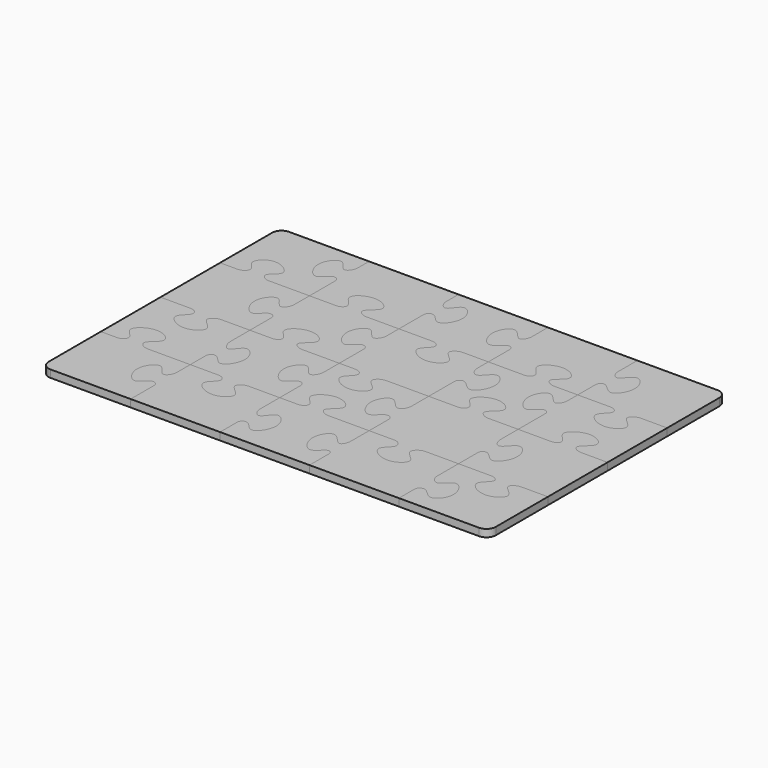
from build123d import *

# Parameters (mm, degrees)
F1_DEPTH  = 2
F2_DEPTH  = 2
F3_DEPTH  = 2
F4_DEPTH  = 2
F5_DEPTH  = 2
F6_DEPTH  = 2
F7_DEPTH  = 2
F8_DEPTH  = 2
F9_DEPTH  = 2
F10_DEPTH = 2
F11_DEPTH = 2
F12_DEPTH = 2
F13_DEPTH = 2
F14_DEPTH = 2
F15_DEPTH = 2
F16_DEPTH = 2
F17_DEPTH = 2
F18_DEPTH = 2
F19_DEPTH = 2
F20_DEPTH = 2
F21_SCALE = 2
F22_R     = 5
F22_2_R   = 5
F22_3_R   = 5
F22_4_R   = 5


with BuildPart() as f1:
    # F0 (on Top) → F1 (new body)
    with BuildSketch(Plane.XY):
        with BuildLine():
            Line((24, -3.7584721283), (24, 0))
            Line((24, 0), (0, 0))
            Line((0, 0), (0, -20.0006017578))
            Line((0, -20.0006017578), (4.7355652845, -20.0006017578))
            add(Edge.make_bspline(
                [(13.115263976, -20.0006017578), (11.8799935394, -20.0006017578), (9.493223639, -17.9887675521), (15.2264950374, -15.5496709572), (8.4759371938, -10.7396164265), (3.4947555113, -15.5543546626), (7.9483864379, -18.0764203974), (6.0408884245, -19.9328260203), (4.7355652845, -20.0006017578)],
                knots=[0, 0, 0, 0, 0.1457055463, 0.3082725414, 0.5094311351, 0.6964902303, 0.8538875316, 0.994566924, 0.994566924, 0.994566924, 0.994566924], degree=3))
            Line((13.115263976, -20.0006017578), (24, -20.0006017578))
            Line((24, -20.0006017578), (24, -11.5073662716))
            add(Edge.make_bspline(
                [(24, -3.7584721283), (24, -5.0220939547), (22.0108390013, -7.8207823307), (19.7245570713, -1.5299457627), (14.7700328768, -7.5446119043), (19.5876216983, -14.1940094341), (21.854031783, -9.2492867095), (24, -10.2861399649), (24, -11.5073662716)],
                knots=[0, 0, 0, 0, 0.1490497166, 0.3161137245, 0.5077874187, 0.7112399197, 0.8713601426, 1, 1, 1, 1], degree=3))
        make_face()
    extrude(amount=F1_DEPTH)


with BuildPart() as f2:
    # F0 (on Top) → F2 (new body)
    with BuildSketch(Plane.XY):
        with BuildLine():
            Line((48, 0), (24, 0))
            Line((24, 0), (24, -3.7584721283))
            add(Edge.make_bspline(
                [(24, -3.7584721283), (24, -5.0220939547), (22.0108390013, -7.8207823307), (19.7245570713, -1.5299457627), (14.7700328768, -7.5446119043), (19.5876216983, -14.1940094341), (21.854031783, -9.2492867095), (24, -10.2861399649), (24, -11.5073662716)],
                knots=[0, 0, 0, 0, 0.1490497166, 0.3161137245, 0.5077874187, 0.7112399197, 0.8713601426, 1, 1, 1, 1], degree=3))
            Line((24, -11.5073662716), (24, -20.0006017578))
            Line((24, -20.0006017578), (31.0887843012, -20.0006017578))
            add(Edge.make_bspline(
                [(39.2809996482, -19.9981919529), (38.0825608, -19.9556917182), (35.3488362077, -18.2167908481), (41.6166244807, -15.2247308685), (35.6036978772, -10.9503067017), (28.8396564664, -15.0322405972), (34.2082944417, -18.3133515154), (32.3531325288, -20.0006017578), (31.0887843012, -20.0006017578)],
                knots=[0.0039809469, 0.0039809469, 0.0039809469, 0.0039809469, 0.1449732133, 0.3162923045, 0.5020510474, 0.699830512, 0.866817825, 1, 1, 1, 1], degree=3))
            Line((39.2809996482, -19.9981919529), (48, -19.9981922525))
            Line((48, -19.9981922525), (48, -11.8384845555))
            add(Edge.make_bspline(
                [(48, -4.1077627646), (48, -5.3716677119), (49.9892220651, -8.1680764855), (52.2755573492, -1.8796305983), (57.230246372, -7.8945865894), (52.4113195443, -14.5403991739), (50.1502363284, -9.6094862294), (48, -10.6198875424), (48, -11.8384845555)],
                knots=[0, 0, 0, 0, 0.149083112, 0.3161919938, 0.5079342773, 0.7114595825, 0.8716371035, 1, 1, 1, 1], degree=3))
            Line((48, -4.1077627646), (48, 0))
        make_face()
    extrude(amount=F2_DEPTH)


with BuildPart() as f3:
    # F0 (on Top) → F3 (new body)
    with BuildSketch(Plane.XY):
        with BuildLine():
            Line((72, 0), (48, 0))
            Line((48, 0), (48, -4.1077627646))
            add(Edge.make_bspline(
                [(48, -4.1077627646), (48, -5.3716677119), (49.9892220651, -8.1680764855), (52.2755573492, -1.8796305983), (57.230246372, -7.8945865894), (52.4113195443, -14.5403991739), (50.1502363284, -9.6094862294), (48, -10.6198875424), (48, -11.8384845555)],
                knots=[0, 0, 0, 0, 0.149083112, 0.3161919938, 0.5079342773, 0.7114595825, 0.8716371035, 1, 1, 1, 1], degree=3))
            Line((48, -11.8384845555), (48, -19.9981922525))
            Line((48, -19.9981922525), (56.9226125415, -19.9981925591))
            add(Edge.make_bspline(
                [(65.2162244751, -19.9981928441), (63.9742302045, -19.9981928014), (61.1345728733, -21.9264637505), (67.444978521, -24.8501877246), (61.4031999593, -29.2974154859), (54.700855209, -24.675424268), (60.0334974007, -21.8853637803), (58.2049452221, -19.9981926032), (56.9226125415, -19.9981925591)],
                knots=[0, 0, 0, 0, 0.1464986518, 0.3176208217, 0.5031660462, 0.7033457105, 0.8649234036, 1, 1, 1, 1], degree=3))
            Line((65.2162244751, -19.9981928441), (72, -19.9981930772))
            Line((72, -19.9981930772), (72, -13.0545149644))
            add(Edge.make_bspline(
                [(72, -5.3029970827), (72, -6.5361415437), (70.4036666482, -9.3746777406), (67.4418181444, -3.0566660991), (62.9639825919, -9.0923977994), (67.3005982199, -15.757784466), (70.2012374634, -10.8006550751), (72, -11.8852667416), (72, -13.0545149644)],
                knots=[0, 0, 0, 0, 0.1454538995, 0.3184632046, 0.5082890004, 0.7100717108, 0.876834229, 1, 1, 1, 1], degree=3))
            Line((72, -5.3029970827), (72, 0))
        make_face()
    extrude(amount=F3_DEPTH)


with BuildPart() as f4:
    # F0 (on Top) → F4 (new body)
    with BuildSketch(Plane.XY):
        with BuildLine():
            Line((96, 0), (72, 0))
            Line((72, 0), (72, -5.3029970827))
            add(Edge.make_bspline(
                [(72, -5.3029970827), (72, -6.5361415437), (70.4036666482, -9.3746777406), (67.4418181444, -3.0566660991), (62.9639825919, -9.0923977994), (67.3005982199, -15.757784466), (70.2012374634, -10.8006550751), (72, -11.8852667416), (72, -13.0545149644)],
                knots=[0, 0, 0, 0, 0.1454538995, 0.3184632046, 0.5082890004, 0.7100717108, 0.876834229, 1, 1, 1, 1], degree=3))
            Line((72, -13.0545149644), (72, -19.9981930772))
            Line((72, -19.9981930772), (81.4548964701, -19.9981934021))
            add(Edge.make_bspline(
                [(89.7471175746, -19.998193687), (88.513098575, -19.9981936446), (85.6689618145, -18.1631312344), (91.980045719, -15.3278802191), (85.9721256284, -10.8213294745), (79.219970992, -15.1354347202), (84.5689410971, -18.2425948389), (82.7258491212, -19.9981934458), (81.4548964701, -19.9981934021)],
                knots=[0, 0, 0, 0, 0.1455577153, 0.3153699973, 0.502235583, 0.70087226, 0.8661223095, 1, 1, 1, 1], degree=3))
            Line((89.7471175746, -19.998193687), (96, -19.9981939019))
            Line((96, -19.9981939019), (96, -14.1215990914))
            add(Edge.make_bspline(
                [(96, -6.3747486351), (96, -7.6083206153), (97.6294004629, -10.4447947787), (100.6148144282, -4.127864344), (105.0885589186, -10.1626170574), (100.7555229608, -16.8266023613), (97.8322602283, -11.871441542), (96, -12.9494285442), (96, -14.1215990914)],
                knots=[0, 0, 0, 0, 0.1455037938, 0.3186710558, 0.5081348151, 0.709533445, 0.8765270202, 1, 1, 1, 1], degree=3))
            Line((96, -6.3747486351), (96, 0))
        make_face()
    extrude(amount=F4_DEPTH)


with BuildPart() as f5:
    # F0 (on Top) → F5 (new body)
    with BuildSketch(Plane.XY):
        with BuildLine():
            Line((120, 0), (96, 0))
            Line((96, 0), (96, -6.3747486351))
            add(Edge.make_bspline(
                [(96, -6.3747486351), (96, -7.6083206153), (97.6294004629, -10.4447947787), (100.6148144282, -4.127864344), (105.0885589186, -10.1626170574), (100.7555229608, -16.8266023613), (97.8322602283, -11.871441542), (96, -12.9494285442), (96, -14.1215990914)],
                knots=[0, 0, 0, 0, 0.1455037938, 0.3186710558, 0.5081348151, 0.709533445, 0.8765270202, 1, 1, 1, 1], degree=3))
            Line((96, -14.1215990914), (96, -19.9981939019))
            Line((96, -19.9981939019), (104.7063882142, -19.9981942011))
            add(Edge.make_bspline(
                [(113, -19.9981944861), (111.7634205164, -19.9981944436), (108.9180780966, -21.8363001088), (115.2322587449, -24.794397912), (109.1870532962, -29.2260122916), (102.4803113411, -24.6208137206), (107.817394599, -21.7972377751), (105.9805087608, -19.9981942449), (104.7063882142, -19.9981942011)],
                knots=[0, 0, 0, 0, 0.1458599539, 0.3173403, 0.5032738897, 0.7038725505, 0.8657884421, 1, 1, 1, 1], degree=3))
            Line((113, -19.9981944861), (120, -19.9981947266))
            Line((120, -19.9981947266), (120, 0))
        make_face()
    extrude(amount=F5_DEPTH)


with BuildPart() as f6:
    # F0 (on Top) → F6 (new body)
    with BuildSketch(Plane.XY):
        with BuildLine():
            Line((120, -39.9987964844), (120, -19.9981947266))
            Line((120, -19.9981947266), (113, -19.9981944861))
            add(Edge.make_bspline(
                [(113, -19.9981944861), (111.7634205164, -19.9981944436), (108.9180780966, -21.8363001088), (115.2322587449, -24.794397912), (109.1870532962, -29.2260122916), (102.4803113411, -24.6208137206), (107.817394599, -21.7972377751), (105.9805087608, -19.9981942449), (104.7063882142, -19.9981942011)],
                knots=[0, 0, 0, 0, 0.1458599539, 0.3173403, 0.5032738897, 0.7038725505, 0.8657884421, 1, 1, 1, 1], degree=3))
            Line((104.7063882142, -19.9981942011), (96, -19.9981939019))
            Line((96, -19.9981939019), (96, -23.3385507017))
            add(Edge.make_bspline(
                [(96, -23.3385507017), (96, -24.5749869421), (94.4206187145, -27.4146404945), (91.3627321501, -21.0943342494), (86.9673135902, -27.1702555424), (91.5608451586, -33.7971144779), (94.3056780651, -28.8405246225), (96, -29.9352840145), (96, -31.0874448451)],
                knots=[0, 0, 0, 0, 0.145843058, 0.3203874242, 0.5096432848, 0.7138262524, 0.8786352668, 1, 1, 1, 1], degree=3))
            Line((96, -31.0874448451), (96, -39.9987964844))
            Line((96, -39.9987964844), (104.7063868636, -39.9987964844))
            add(Edge.make_bspline(
                [(113, -39.9987964844), (111.7731553006, -39.9987964844), (108.9173227076, -38.3283967843), (115.2386461807, -35.3047443797), (109.187225075, -30.9028602533), (102.4723155689, -35.4759232599), (107.8180270902, -38.3640056005), (105.9656240827, -39.9987964844), (104.7063868636, -39.9987964844)],
                knots=[0, 0, 0, 0, 0.1447116938, 0.3168389709, 0.5034740177, 0.7048294611, 0.8673562014, 1, 1, 1, 1], degree=3))
            Line((113, -39.9987964844), (120, -39.9987964844))
        make_face()
    extrude(amount=F6_DEPTH)


with BuildPart() as f7:
    # F0 (on Top) → F7 (new body)
    with BuildSketch(Plane.XY):
        with BuildLine():
            Line((120, -80), (120, -59.9993982422))
            Line((120, -59.9993982422), (113, -59.9993982422))
            add(Edge.make_bspline(
                [(113, -59.9993982422), (111.7739286971, -59.9993982422), (108.9172477976, -61.6561253007), (115.2391585268, -64.6852147147), (109.187240623, -69.0846359308), (102.4716674308, -64.5142445184), (107.8181008368, -61.6207771214), (105.9644351351, -59.9993982422), (104.7063868636, -59.9993982422)],
                knots=[0, 0, 0, 0, 0.1446204683, 0.3167993054, 0.503490258, 0.7049060166, 0.8674814411, 1, 1, 1, 1], degree=3))
            Line((104.7063868636, -59.9993982422), (96, -59.9993982422))
            Line((96, -59.9993982422), (96, -67.1107425314))
            add(Edge.make_bspline(
                [(96, -67.1107425314), (96, -68.3946340467), (98.1631648451, -71.1065645749), (101.0325367633, -65.1210909898), (105.5678465994, -71.970369581), (100.7022119308, -77.253657617), (98.2964033286, -72.6432913304), (96, -73.6293335877), (96, -74.8710201292)],
                knots=[0, 0, 0, 0, 0.1514426056, 0.3189399761, 0.5169339685, 0.7056479436, 0.8692036664, 1, 1, 1, 1], degree=3))
            Line((96, -74.8710201292), (96, -80))
            Line((96, -80), (120, -80))
        make_face()
    extrude(amount=F7_DEPTH)


with BuildPart() as f8:
    # F0 (on Top) → F8 (new body)
    with BuildSketch(Plane.XY):
        with BuildLine():
            Line((120, -59.9993982422), (120, -39.9987964844))
            Line((120, -39.9987964844), (113, -39.9987964844))
            add(Edge.make_bspline(
                [(113, -39.9987964844), (111.7731553006, -39.9987964844), (108.9173227076, -38.3283967843), (115.2386461807, -35.3047443797), (109.187225075, -30.9028602533), (102.4723155689, -35.4759232599), (107.8180270902, -38.3640056005), (105.9656240827, -39.9987964844), (104.7063868636, -39.9987964844)],
                knots=[0, 0, 0, 0, 0.1447116938, 0.3168389709, 0.5034740177, 0.7048294611, 0.8673562014, 1, 1, 1, 1], degree=3))
            Line((104.7063868636, -39.9987964844), (96, -39.9987964844))
            Line((96, -39.9987964844), (96, -45.9489563326))
            add(Edge.make_bspline(
                [(96, -45.9489563326), (96, -47.1968675973), (97.7976897794, -50.0246052563), (100.7691487606, -43.7126300623), (105.2037796502, -49.7814221312), (100.5675873037, -56.3954588924), (97.9025363912, -51.4485925787), (96, -52.518988149), (96, -53.6978504759)],
                knots=[0, 0, 0, 0, 0.1471965872, 0.3207486089, 0.5089284851, 0.7119506026, 0.8758226213, 1, 1, 1, 1], degree=3))
            Line((96, -53.6978504759), (96, -59.9993982422))
            Line((96, -59.9993982422), (104.7063868636, -59.9993982422))
            add(Edge.make_bspline(
                [(113, -59.9993982422), (111.7739286971, -59.9993982422), (108.9172477976, -61.6561253007), (115.2391585268, -64.6852147147), (109.187240623, -69.0846359308), (102.4716674308, -64.5142445184), (107.8181008368, -61.6207771214), (105.9644351351, -59.9993982422), (104.7063868636, -59.9993982422)],
                knots=[0, 0, 0, 0, 0.1446204683, 0.3167993054, 0.503490258, 0.7049060166, 0.8674814411, 1, 1, 1, 1], degree=3))
            Line((113, -59.9993982422), (120, -59.9993982422))
        make_face()
    extrude(amount=F8_DEPTH)


with BuildPart() as f9:
    # F0 (on Top) → F9 (new body)
    with BuildSketch(Plane.XY):
        with BuildLine():
            Line((81.4548964701, -19.9981934021), (72, -19.9981930772))
            Line((72, -19.9981930772), (72, -23.7384419888))
            add(Edge.make_bspline(
                [(72, -23.7384419888), (72, -24.9995731501), (74.0323358827, -27.8141796571), (76.9149150372, -21.5109762253), (81.3898204947, -27.5714941031), (76.710680789, -34.172469745), (74.1248364946, -29.2338132456), (72, -30.2792962384), (72, -31.4873361321)],
                knots=[0, 0, 0, 0, 0.1487559318, 0.3212044605, 0.5081878357, 0.709919081, 0.8727491548, 1, 1, 1, 1], degree=3))
            Line((72, -31.4873361321), (72, -39.9987964844))
            Line((72, -39.9987964844), (79.7195339582, -39.9987964844))
            add(Edge.make_bspline(
                [(88.0131470945, -39.9987964844), (86.7726747194, -39.9987964844), (83.9314294679, -38.0956659963), (90.2428823523, -35.1624188177), (84.2001426755, -30.7195182189), (77.4965721273, -35.3368611232), (82.8304377047, -38.1361862558), (80.9995632753, -39.9987964844), (79.7195339582, -39.9987964844)],
                knots=[0, 0, 0, 0, 0.1463191377, 0.3175418582, 0.5031961078, 0.7034933958, 0.865166032, 1, 1, 1, 1], degree=3))
            Line((88.0131470945, -39.9987964844), (96, -39.9987964844))
            Line((96, -39.9987964844), (96, -31.0874448451))
            add(Edge.make_bspline(
                [(96, -23.3385507017), (96, -24.5749869421), (94.4206187145, -27.4146404945), (91.3627321501, -21.0943342494), (86.9673135902, -27.1702555424), (91.5608451586, -33.7971144779), (94.3056780651, -28.8405246225), (96, -29.9352840145), (96, -31.0874448451)],
                knots=[0, 0, 0, 0, 0.145843058, 0.3203874242, 0.5096432848, 0.7138262524, 0.8786352668, 1, 1, 1, 1], degree=3))
            Line((96, -23.3385507017), (96, -19.9981939019))
            Line((96, -19.9981939019), (89.7471175746, -19.998193687))
            add(Edge.make_bspline(
                [(89.7471175746, -19.998193687), (88.513098575, -19.9981936446), (85.6689618145, -18.1631312344), (91.980045719, -15.3278802191), (85.9721256284, -10.8213294745), (79.219970992, -15.1354347202), (84.5689410971, -18.2425948389), (82.7258491212, -19.9981934458), (81.4548964701, -19.9981934021)],
                knots=[0, 0, 0, 0, 0.1455577153, 0.3153699973, 0.502235583, 0.70087226, 0.8661223095, 1, 1, 1, 1], degree=3))
        make_face()
    extrude(amount=F9_DEPTH)


with BuildPart() as f10:
    # F0 (on Top) → F10 (new body)
    with BuildSketch(Plane.XY):
        with BuildLine():
            Line((56.9226125415, -19.9981925591), (48, -19.9981922525))
            Line((48, -19.9981922525), (48, -24.0893980685))
            add(Edge.make_bspline(
                [(48, -24.0893980685), (48, -25.3549826963), (46.0147347856, -28.1805401482), (43.7236119597, -21.874309949), (38.7712348797, -27.8955688067), (43.5829593065, -34.5413248371), (45.8647669134, -29.5901747083), (48, -30.6780093555), (48, -31.9043344761)],
                knots=[0, 0, 0, 0, 0.1492873271, 0.3162256521, 0.5077672507, 0.7110013487, 0.8708128709, 1, 1, 1, 1], degree=3))
            Line((48, -31.9043344761), (48, -39.9987964844))
            Line((48, -39.9987964844), (52.2833045765, -39.9987964844))
            add(Edge.make_bspline(
                [(60.5769177129, -39.9987964844), (59.328272283, -39.9987964844), (56.4954535631, -42.0352289038), (62.8014131705, -44.9185233216), (56.7638139907, -49.384134707), (50.0667331827, -44.7424447419), (55.3942576846, -41.9915370398), (53.5756594139, -39.9987964844), (52.2833045765, -39.9987964844)],
                knots=[0, 0, 0, 0, 0.1472831852, 0.3179670285, 0.5030369815, 0.7027038881, 0.8638677033, 1, 1, 1, 1], degree=3))
            Line((60.5769177129, -39.9987964844), (72, -39.9987964844))
            Line((72, -39.9987964844), (72, -31.4873361321))
            add(Edge.make_bspline(
                [(72, -23.7384419888), (72, -24.9995731501), (74.0323358827, -27.8141796571), (76.9149150372, -21.5109762253), (81.3898204947, -27.5714941031), (76.710680789, -34.172469745), (74.1248364946, -29.2338132456), (72, -30.2792962384), (72, -31.4873361321)],
                knots=[0, 0, 0, 0, 0.1487559318, 0.3212044605, 0.5081878357, 0.709919081, 0.8727491548, 1, 1, 1, 1], degree=3))
            Line((72, -23.7384419888), (72, -19.9981930772))
            Line((72, -19.9981930772), (65.2162244751, -19.9981928441))
            add(Edge.make_bspline(
                [(65.2162244751, -19.9981928441), (63.9742302045, -19.9981928014), (61.1345728733, -21.9264637505), (67.444978521, -24.8501877246), (61.4031999593, -29.2974154859), (54.700855209, -24.675424268), (60.0334974007, -21.8853637803), (58.2049452221, -19.9981926032), (56.9226125415, -19.9981925591)],
                knots=[0, 0, 0, 0, 0.1464986518, 0.3176208217, 0.5031660462, 0.7033457105, 0.8649234036, 1, 1, 1, 1], degree=3))
        make_face()
    extrude(amount=F10_DEPTH)


with BuildPart() as f11:
    # F0 (on Top) → F11 (new body)
    with BuildSketch(Plane.XY):
        with BuildLine():
            Line((4.7355652845, -20.0006017578), (0, -20.0006017578))
            Line((0, -20.0006017578), (0, -39.9987964844))
            Line((0, -39.9987964844), (8.0388996943, -39.9987964844))
            add(Edge.make_bspline(
                [(16.3325128307, -39.9987964844), (15.0863584989, -39.9987964844), (12.2509966768, -41.9950301448), (18.5585971696, -44.893248025), (12.5194364752, -49.3520712584), (5.8204014561, -44.7176459048), (11.1498000806, -41.9523192123), (9.327509227, -39.9987964844), (8.0388996943, -39.9987964844)],
                knots=[0, 0, 0, 0, 0.1469893493, 0.3178371521, 0.503084884, 0.7029435913, 0.864262221, 1, 1, 1, 1], degree=3))
            Line((16.3325128307, -39.9987964844), (24, -39.9987964844))
            Line((24, -39.9987964844), (24, -32.919944497))
            add(Edge.make_bspline(
                [(24, -25.132677872), (24, -26.3974311205), (22.0130227198, -29.2111046463), (19.7240448366, -22.911613908), (14.7707733423, -28.9304559716), (19.5848122731, -35.5743434413), (21.8606779803, -30.6283971515), (24, -31.6955648546), (24, -32.919944497)],
                knots=[0, 0, 0, 0, 0.1491865782, 0.3161835224, 0.5077899488, 0.7110938178, 0.8710220234, 1, 1, 1, 1], degree=3))
            Line((24, -25.132677872), (24, -20.0006017578))
            Line((24, -20.0006017578), (13.115263976, -20.0006017578))
            add(Edge.make_bspline(
                [(13.115263976, -20.0006017578), (11.8799935394, -20.0006017578), (9.493223639, -17.9887675521), (15.2264950374, -15.5496709572), (8.4759371938, -10.7396164265), (3.4947555113, -15.5543546626), (7.9483864379, -18.0764203974), (6.0408884245, -19.9328260203), (4.7355652845, -20.0006017578)],
                knots=[0, 0, 0, 0, 0.1457055463, 0.3082725414, 0.5094311351, 0.6964902303, 0.8538875316, 0.994566924, 0.994566924, 0.994566924, 0.994566924], degree=3))
        make_face()
    extrude(amount=F11_DEPTH)


with BuildPart() as f12:
    # F0 (on Top) → F12 (new body)
    with BuildSketch(Plane.XY):
        with BuildLine():
            Line((31.0887843012, -20.0006017578), (24, -20.0006017578))
            Line((24, -20.0006017578), (24, -25.132677872))
            add(Edge.make_bspline(
                [(24, -25.132677872), (24, -26.3974311205), (22.0130227198, -29.2111046463), (19.7240448366, -22.911613908), (14.7707733423, -28.9304559716), (19.5848122731, -35.5743434413), (21.8606779803, -30.6283971515), (24, -31.6955648546), (24, -32.919944497)],
                knots=[0, 0, 0, 0, 0.1491865782, 0.3161835224, 0.5077899488, 0.7110938178, 0.8710220234, 1, 1, 1, 1], degree=3))
            Line((24, -32.919944497), (24, -39.9987964844))
            Line((24, -39.9987964844), (29.8091189942, -39.9987964844))
            add(Edge.make_bspline(
                [(38.1027321306, -39.9987964844), (36.8747015381, -39.9987964844), (34.0201653988, -38.3075384186), (40.3405940976, -35.2921536735), (34.289933905, -30.8865235073), (27.5760377752, -35.4636471892), (32.9206529531, -38.343551191), (31.070177446, -39.9987964844), (29.8091189942, -39.9987964844)],
                knots=[0, 0, 0, 0, 0.144851575, 0.3168998386, 0.5034492122, 0.7047122251, 0.8671643589, 1, 1, 1, 1], degree=3))
            Line((38.1027321306, -39.9987964844), (48, -39.9987964844))
            Line((48, -39.9987964844), (48, -31.9043344761))
            add(Edge.make_bspline(
                [(48, -24.0893980685), (48, -25.3549826963), (46.0147347856, -28.1805401482), (43.7236119597, -21.874309949), (38.7712348797, -27.8955688067), (43.5829593065, -34.5413248371), (45.8647669134, -29.5901747083), (48, -30.6780093555), (48, -31.9043344761)],
                knots=[0, 0, 0, 0, 0.1492873271, 0.3162256521, 0.5077672507, 0.7110013487, 0.8708128709, 1, 1, 1, 1], degree=3))
            Line((48, -24.0893980685), (48, -19.9981922525))
            Line((48, -19.9981922525), (39.2809996482, -19.9981919529))
            add(Edge.make_bspline(
                [(39.2809996482, -19.9981919529), (38.0825608, -19.9556917182), (35.3488362077, -18.2167908481), (41.6166244807, -15.2247308685), (35.6036978772, -10.9503067017), (28.8396564664, -15.0322405972), (34.2082944417, -18.3133515154), (32.3531325288, -20.0006017578), (31.0887843012, -20.0006017578)],
                knots=[0.0039809469, 0.0039809469, 0.0039809469, 0.0039809469, 0.1449732133, 0.3162923045, 0.5020510474, 0.699830512, 0.866817825, 1, 1, 1, 1], degree=3))
        make_face()
    extrude(amount=F12_DEPTH)


with BuildPart() as f13:
    # F0 (on Top) → F13 (new body)
    with BuildSketch(Plane.XY):
        with BuildLine():
            Line((8.0388996943, -39.9987964844), (0, -39.9987964844))
            Line((0, -39.9987964844), (0, -59.9993982422))
            Line((0, -59.9993982422), (4.3226189918, -59.9993982422))
            add(Edge.make_bspline(
                [(12.6162321281, -59.9993982422), (11.36851335, -59.9993982422), (8.5347512078, -57.977877272), (14.8413177931, -55.0890612335), (8.8031382946, -50.6259617524), (2.1053329552, -55.2649647504), (7.433548679, -58.0212029068), (5.6135817988, -59.9993982422), (4.3226189918, -59.9993982422)],
                knots=[0, 0, 0, 0, 0.1471738826, 0.3179186871, 0.5030547395, 0.7027929588, 0.864014335, 1, 1, 1, 1], degree=3))
            Line((12.6162321281, -59.9993982422), (24, -59.9993982422))
            Line((24, -59.9993982422), (24, -54.8744184801))
            add(Edge.make_bspline(
                [(24, -46.4562601135), (24, -47.7943235436), (25.8500643293, -51.3455865122), (28.3213168656, -44.8775393639), (33.2211750011, -50.9327720461), (28.4059179575, -57.6351044561), (26.1505665369, -52.5675042118), (24, -53.6578835225), (24, -54.8744184801)],
                knots=[0, 0, 0, 0, 0.1587608184, 0.3225399363, 0.5123062124, 0.7135996492, 0.8725852141, 1, 1, 1, 1], degree=3))
            Line((24, -46.4562601135), (24, -39.9987964844))
            Line((24, -39.9987964844), (16.3325128307, -39.9987964844))
            add(Edge.make_bspline(
                [(16.3325128307, -39.9987964844), (15.0863584989, -39.9987964844), (12.2509966768, -41.9950301448), (18.5585971696, -44.893248025), (12.5194364752, -49.3520712584), (5.8204014561, -44.7176459048), (11.1498000806, -41.9523192123), (9.327509227, -39.9987964844), (8.0388996943, -39.9987964844)],
                knots=[0, 0, 0, 0, 0.1469893493, 0.3178371521, 0.503084884, 0.7029435913, 0.864262221, 1, 1, 1, 1], degree=3))
        make_face()
    extrude(amount=F13_DEPTH)


with BuildPart() as f14:
    # F0 (on Top) → F14 (new body)
    with BuildSketch(Plane.XY):
        with BuildLine():
            Line((4.3226189918, -59.9993982422), (0, -59.9993982422))
            Line((0, -59.9993982422), (0, -80))
            Line((0, -80), (24, -80))
            Line((24, -80), (24, -72.2991333781))
            add(Edge.make_bspline(
                [(24, -64.5038115386), (24, -65.7688024576), (22.0135348097, -68.5861845779), (19.723931976, -62.2844807997), (14.7708988114, -68.3040399195), (19.5843729652, -74.9489098134), (21.8618887458, -70.0000313935), (24, -71.0741294258), (24, -72.2991333781)],
                knots=[0, 0, 0, 0, 0.1492154183, 0.3161931053, 0.5077769487, 0.7110561794, 0.8709549869, 1, 1, 1, 1], degree=3))
            Line((24, -64.5038115386), (24, -59.9993982422))
            Line((24, -59.9993982422), (12.6162321281, -59.9993982422))
            add(Edge.make_bspline(
                [(12.6162321281, -59.9993982422), (11.36851335, -59.9993982422), (8.5347512078, -57.977877272), (14.8413177931, -55.0890612335), (8.8031382946, -50.6259617524), (2.1053329552, -55.2649647504), (7.433548679, -58.0212029068), (5.6135817988, -59.9993982422), (4.3226189918, -59.9993982422)],
                knots=[0, 0, 0, 0, 0.1471738826, 0.3179186871, 0.5030547395, 0.7027929588, 0.864014335, 1, 1, 1, 1], degree=3))
        make_face()
    extrude(amount=F14_DEPTH)


with BuildPart() as f15:
    # F0 (on Top) → F15 (new body)
    with BuildSketch(Plane.XY):
        with BuildLine():
            Line((29.8091189942, -39.9987964844), (24, -39.9987964844))
            Line((24, -39.9987964844), (24, -46.4562601135))
            add(Edge.make_bspline(
                [(24, -46.4562601135), (24, -47.7943235436), (25.8500643293, -51.3455865122), (28.3213168656, -44.8775393639), (33.2211750011, -50.9327720461), (28.4059179575, -57.6351044561), (26.1505665369, -52.5675042118), (24, -53.6578835225), (24, -54.8744184801)],
                knots=[0, 0, 0, 0, 0.1587608184, 0.3225399363, 0.5123062124, 0.7135996492, 0.8725852141, 1, 1, 1, 1], degree=3))
            Line((24, -54.8744184801), (24, -59.9993982422))
            Line((24, -59.9993982422), (31.4655553743, -59.9993982422))
            add(Edge.make_bspline(
                [(39.7591685106, -59.9993982422), (38.5195424721, -59.9993982422), (35.6774109572, -61.8884814699), (41.9894507927, -64.8270702933), (35.9461759656, -69.2675442343), (29.2419203849, -64.6528099735), (34.5764745672, -61.8482813411), (32.7443021748, -59.9993982422), (31.4655553743, -59.9993982422)],
                knots=[0, 0, 0, 0, 0.1462193086, 0.3174979861, 0.503212909, 0.7035756559, 0.8653011279, 1, 1, 1, 1], degree=3))
            Line((39.7591685106, -59.9993982422), (48, -59.9993982422))
            Line((48, -59.9993982422), (48, -53.1019339562))
            add(Edge.make_bspline(
                [(48, -45.3109688633), (48, -46.5758593204), (46.0132696553, -49.3918090601), (43.7240550045, -43.0905281647), (38.7708205446, -49.1098272344), (43.5846486967, -55.7545161985), (45.8612311262, -50.8065222636), (48, -51.8772614626), (48, -53.1019339562)],
                knots=[0, 0, 0, 0, 0.1492031888, 0.3161929312, 0.5077847896, 0.7110751311, 0.8709905277, 1, 1, 1, 1], degree=3))
            Line((48, -45.3109688633), (48, -39.9987964844))
            Line((48, -39.9987964844), (38.1027321306, -39.9987964844))
            add(Edge.make_bspline(
                [(38.1027321306, -39.9987964844), (36.8747015381, -39.9987964844), (34.0201653988, -38.3075384186), (40.3405940976, -35.2921536735), (34.289933905, -30.8865235073), (27.5760377752, -35.4636471892), (32.9206529531, -38.343551191), (31.070177446, -39.9987964844), (29.8091189942, -39.9987964844)],
                knots=[0, 0, 0, 0, 0.144851575, 0.3168998386, 0.5034492122, 0.7047122251, 0.8671643589, 1, 1, 1, 1], degree=3))
        make_face()
    extrude(amount=F15_DEPTH)


with BuildPart() as f16:
    # F0 (on Top) → F16 (new body)
    with BuildSketch(Plane.XY):
        with BuildLine():
            Line((52.2833045765, -39.9987964844), (48, -39.9987964844))
            Line((48, -39.9987964844), (48, -45.3109688633))
            add(Edge.make_bspline(
                [(48, -45.3109688633), (48, -46.5758593204), (46.0132696553, -49.3918090601), (43.7240550045, -43.0905281647), (38.7708205446, -49.1098272344), (43.5846486967, -55.7545161985), (45.8612311262, -50.8065222636), (48, -51.8772614626), (48, -53.1019339562)],
                knots=[0, 0, 0, 0, 0.1492031888, 0.3161929312, 0.5077847896, 0.7110751311, 0.8709905277, 1, 1, 1, 1], degree=3))
            Line((48, -53.1019339562), (48, -59.9993982422))
            Line((48, -59.9993982422), (52.8279298923, -59.9993982422))
            add(Edge.make_bspline(
                [(61.1215430286, -59.9993982422), (59.8863963634, -59.9993982422), (57.0395310195, -58.1855018759), (63.3547345156, -55.2180706559), (57.3086184731, -50.7906928745), (50.6006955831, -55.3913248389), (55.9389966526, -58.2240378784), (54.0998693994, -59.9993982422), (52.8279298923, -59.9993982422)],
                knots=[0, 0, 0, 0, 0.1456909469, 0.3172662718, 0.503302845, 0.7040126116, 0.8660181852, 1, 1, 1, 1], degree=3))
            Line((61.1215430286, -59.9993982422), (72, -59.9993982422))
            Line((72, -59.9993982422), (72, -53.5575882018))
            add(Edge.make_bspline(
                [(72, -45.8086940585), (72, -47.072496119), (69.9219994115, -49.884525541), (67.0562334327, -43.5829894771), (62.5737142338, -49.6418328759), (67.2608807802, -56.24036122), (69.8320358867, -51.3030274735), (72, -52.3438362675), (72, -53.5575882018)],
                knots=[0, 0, 0, 0, 0.149070976, 0.3213011478, 0.5080477617, 0.7095235718, 0.8721474678, 1, 1, 1, 1], degree=3))
            Line((72, -45.8086940585), (72, -39.9987964844))
            Line((72, -39.9987964844), (60.5769177129, -39.9987964844))
            add(Edge.make_bspline(
                [(60.5769177129, -39.9987964844), (59.328272283, -39.9987964844), (56.4954535631, -42.0352289038), (62.8014131705, -44.9185233216), (56.7638139907, -49.384134707), (50.0667331827, -44.7424447419), (55.3942576846, -41.9915370398), (53.5756594139, -39.9987964844), (52.2833045765, -39.9987964844)],
                knots=[0, 0, 0, 0, 0.1472831852, 0.3179670285, 0.5030369815, 0.7027038881, 0.8638677033, 1, 1, 1, 1], degree=3))
        make_face()
    extrude(amount=F16_DEPTH)


with BuildPart() as f17:
    # F0 (on Top) → F17 (new body)
    with BuildSketch(Plane.XY):
        with BuildLine():
            Line((79.7195339582, -39.9987964844), (72, -39.9987964844))
            Line((72, -39.9987964844), (72, -45.8086940585))
            add(Edge.make_bspline(
                [(72, -45.8086940585), (72, -47.072496119), (69.9219994115, -49.884525541), (67.0562334327, -43.5829894771), (62.5737142338, -49.6418328759), (67.2608807802, -56.24036122), (69.8320358867, -51.3030274735), (72, -52.3438362675), (72, -53.5575882018)],
                knots=[0, 0, 0, 0, 0.149070976, 0.3213011478, 0.5080477617, 0.7095235718, 0.8721474678, 1, 1, 1, 1], degree=3))
            Line((72, -53.5575882018), (72, -59.9993982422))
            Line((72, -59.9993982422), (78.7716273411, -59.9993982422))
            add(Edge.make_bspline(
                [(87.0652404775, -59.9993982422), (85.7965669921, -59.9993982422), (82.9834041664, -62.3476720277), (89.2772166239, -65.1192931205), (83.2520022675, -69.635779985), (76.5699145756, -64.9399784125), (81.8841468078, -62.295768429), (80.0937364169, -59.9993982422), (78.7716273411, -59.9993982422)],
                knots=[0, 0, 0, 0, 0.1496455819, 0.3190201838, 0.5026705458, 0.7008058944, 0.8607334922, 1, 1, 1, 1], degree=3))
            Line((87.0652404775, -59.9993982422), (96, -59.9993982422))
            Line((96, -59.9993982422), (96, -53.6978504759))
            add(Edge.make_bspline(
                [(96, -45.9489563326), (96, -47.1968675973), (97.7976897794, -50.0246052563), (100.7691487606, -43.7126300623), (105.2037796502, -49.7814221312), (100.5675873037, -56.3954588924), (97.9025363912, -51.4485925787), (96, -52.518988149), (96, -53.6978504759)],
                knots=[0, 0, 0, 0, 0.1471965872, 0.3207486089, 0.5089284851, 0.7119506026, 0.8758226213, 1, 1, 1, 1], degree=3))
            Line((96, -45.9489563326), (96, -39.9987964844))
            Line((96, -39.9987964844), (88.0131470945, -39.9987964844))
            add(Edge.make_bspline(
                [(88.0131470945, -39.9987964844), (86.7726747194, -39.9987964844), (83.9314294679, -38.0956659963), (90.2428823523, -35.1624188177), (84.2001426755, -30.7195182189), (77.4965721273, -35.3368611232), (82.8304377047, -38.1361862558), (80.9995632753, -39.9987964844), (79.7195339582, -39.9987964844)],
                knots=[0, 0, 0, 0, 0.1463191377, 0.3175418582, 0.5031961078, 0.7034933958, 0.865166032, 1, 1, 1, 1], degree=3))
        make_face()
    extrude(amount=F17_DEPTH)


with BuildPart() as f18:
    # F0 (on Top) → F18 (new body)
    with BuildSketch(Plane.XY):
        with BuildLine():
            Line((24, -72.2991333781), (24, -80))
            Line((24, -80), (48, -80))
            Line((48, -80), (48, -74.3828937106))
            add(Edge.make_bspline(
                [(48, -66.6416197648), (48, -67.9050147874), (49.9899523421, -70.6985407951), (52.2751336056, -64.4098917615), (57.2299709584, -70.4249392041), (52.4125281337, -77.0641183237), (50.1460845266, -72.1321004181), (48, -73.1619169324), (48, -74.3828937106)],
                knots=[0, 0, 0, 0, 0.1490216906, 0.3161309315, 0.5078538856, 0.7112869297, 0.8713873314, 1, 1, 1, 1], degree=3))
            Line((48, -66.6416197648), (48, -59.9993982422))
            Line((48, -59.9993982422), (39.7591685106, -59.9993982422))
            add(Edge.make_bspline(
                [(39.7591685106, -59.9993982422), (38.5195424721, -59.9993982422), (35.6774109572, -61.8884814699), (41.9894507927, -64.8270702933), (35.9461759656, -69.2675442343), (29.2419203849, -64.6528099735), (34.5764745672, -61.8482813411), (32.7443021748, -59.9993982422), (31.4655553743, -59.9993982422)],
                knots=[0, 0, 0, 0, 0.1462193086, 0.3174979861, 0.503212909, 0.7035756559, 0.8653011279, 1, 1, 1, 1], degree=3))
            Line((31.4655553743, -59.9993982422), (24, -59.9993982422))
            Line((24, -59.9993982422), (24, -64.5038115386))
            add(Edge.make_bspline(
                [(24, -64.5038115386), (24, -65.7688024576), (22.0135348097, -68.5861845779), (19.723931976, -62.2844807997), (14.7708988114, -68.3040399195), (19.5843729652, -74.9489098134), (21.8618887458, -70.0000313935), (24, -71.0741294258), (24, -72.2991333781)],
                knots=[0, 0, 0, 0, 0.1492154183, 0.3161931053, 0.5077769487, 0.7110561794, 0.8709549869, 1, 1, 1, 1], degree=3))
        make_face()
    extrude(amount=F18_DEPTH)


with BuildPart() as f19:
    # F0 (on Top) → F19 (new body)
    with BuildSketch(Plane.XY):
        with BuildLine():
            Line((48, -74.3828937106), (48, -80))
            Line((48, -80), (72, -80))
            Line((72, -80), (72, -73.7451039672))
            add(Edge.make_bspline(
                [(72, -65.9962098239), (72, -67.2194966522), (70.6944474197, -70.0734167091), (67.5231290622, -63.7427156684), (63.1792615291, -69.8266750105), (67.7153250459, -76.470331218), (70.569533192, -71.4989169231), (72, -72.6253962843), (72, -73.7451039672)],
                knots=[0, 0, 0, 0, 0.1442920273, 0.3200200912, 0.5105594176, 0.7161270814, 0.8820537718, 1, 1, 1, 1], degree=3))
            Line((72, -65.9962098239), (72, -59.9993982422))
            Line((72, -59.9993982422), (61.1215430286, -59.9993982422))
            add(Edge.make_bspline(
                [(61.1215430286, -59.9993982422), (59.8863963634, -59.9993982422), (57.0395310195, -58.1855018759), (63.3547345156, -55.2180706559), (57.3086184731, -50.7906928745), (50.6006955831, -55.3913248389), (55.9389966526, -58.2240378784), (54.0998693994, -59.9993982422), (52.8279298923, -59.9993982422)],
                knots=[0, 0, 0, 0, 0.1456909469, 0.3172662718, 0.503302845, 0.7040126116, 0.8660181852, 1, 1, 1, 1], degree=3))
            Line((52.8279298923, -59.9993982422), (48, -59.9993982422))
            Line((48, -59.9993982422), (48, -66.6416197648))
            add(Edge.make_bspline(
                [(48, -66.6416197648), (48, -67.9050147874), (49.9899523421, -70.6985407951), (52.2751336056, -64.4098917615), (57.2299709584, -70.4249392041), (52.4125281337, -77.0641183237), (50.1460845266, -72.1321004181), (48, -73.1619169324), (48, -74.3828937106)],
                knots=[0, 0, 0, 0, 0.1490216906, 0.3161309315, 0.5078538856, 0.7112869297, 0.8713873314, 1, 1, 1, 1], degree=3))
        make_face()
    extrude(amount=F19_DEPTH)


with BuildPart() as f20:
    # F0 (on Top) → F20 (new body)
    with BuildSketch(Plane.XY):
        with BuildLine():
            Line((72, -73.7451039672), (72, -80))
            Line((72, -80), (96, -80))
            Line((96, -80), (96, -74.8710201292))
            add(Edge.make_bspline(
                [(96, -67.1107425314), (96, -68.3946340467), (98.1631648451, -71.1065645749), (101.0325367633, -65.1210909898), (105.5678465994, -71.970369581), (100.7022119308, -77.253657617), (98.2964033286, -72.6432913304), (96, -73.6293335877), (96, -74.8710201292)],
                knots=[0, 0, 0, 0, 0.1514426056, 0.3189399761, 0.5169339685, 0.7056479436, 0.8692036664, 1, 1, 1, 1], degree=3))
            Line((96, -67.1107425314), (96, -59.9993982422))
            Line((96, -59.9993982422), (87.0652404775, -59.9993982422))
            add(Edge.make_bspline(
                [(87.0652404775, -59.9993982422), (85.7965669921, -59.9993982422), (82.9834041664, -62.3476720277), (89.2772166239, -65.1192931205), (83.2520022675, -69.635779985), (76.5699145756, -64.9399784125), (81.8841468078, -62.295768429), (80.0937364169, -59.9993982422), (78.7716273411, -59.9993982422)],
                knots=[0, 0, 0, 0, 0.1496455819, 0.3190201838, 0.5026705458, 0.7008058944, 0.8607334922, 1, 1, 1, 1], degree=3))
            Line((78.7716273411, -59.9993982422), (72, -59.9993982422))
            Line((72, -59.9993982422), (72, -65.9962098239))
            add(Edge.make_bspline(
                [(72, -65.9962098239), (72, -67.2194966522), (70.6944474197, -70.0734167091), (67.5231290622, -63.7427156684), (63.1792615291, -69.8266750105), (67.7153250459, -76.470331218), (70.569533192, -71.4989169231), (72, -72.6253962843), (72, -73.7451039672)],
                knots=[0, 0, 0, 0, 0.1442920273, 0.3200200912, 0.5105594176, 0.7161270814, 0.8820537718, 1, 1, 1, 1], degree=3))
        make_face()
    extrude(amount=F20_DEPTH)


with BuildPart() as f7_1:
    # F21: moved
    add(f7.part.scale(F21_SCALE))

    # F22#2
    f22_2_edges = [f7_1.edges().sort_by_distance(p)[0] for p in [
        (240, -160, 2),
    ]]
    fillet(f22_2_edges, radius=F22_2_R)


with BuildPart() as f8_1:
    # F21: moved
    add(f8.part.scale(F21_SCALE))


with BuildPart() as f6_1:
    # F21: moved
    add(f6.part.scale(F21_SCALE))


with BuildPart() as f5_1:
    # F21: moved
    add(f5.part.scale(F21_SCALE))

    # F22#3
    f22_3_edges = [f5_1.edges().sort_by_distance(p)[0] for p in [
        (240, 0, 2),
    ]]
    fillet(f22_3_edges, radius=F22_3_R)


with BuildPart() as f4_1:
    # F21: moved
    add(f4.part.scale(F21_SCALE))


with BuildPart() as f20_1:
    # F21: moved
    add(f20.part.scale(F21_SCALE))


with BuildPart() as f19_1:
    # F21: moved
    add(f19.part.scale(F21_SCALE))


with BuildPart() as f17_1:
    # F21: moved
    add(f17.part.scale(F21_SCALE))


with BuildPart() as f9_1:
    # F21: moved
    add(f9.part.scale(F21_SCALE))


with BuildPart() as f10_1:
    # F21: moved
    add(f10.part.scale(F21_SCALE))


with BuildPart() as f3_1:
    # F21: moved
    add(f3.part.scale(F21_SCALE))


with BuildPart() as f16_1:
    # F21: moved
    add(f16.part.scale(F21_SCALE))


with BuildPart() as f18_1:
    # F21: moved
    add(f18.part.scale(F21_SCALE))


with BuildPart() as f15_1:
    # F21: moved
    add(f15.part.scale(F21_SCALE))


with BuildPart() as f12_1:
    # F21: moved
    add(f12.part.scale(F21_SCALE))


with BuildPart() as f2_1:
    # F21: moved
    add(f2.part.scale(F21_SCALE))


with BuildPart() as f14_1:
    # F21: moved
    add(f14.part.scale(F21_SCALE))

    # F22
    f22_edges = [f14_1.edges().sort_by_distance(p)[0] for p in [
        (0, -160, 2),
    ]]
    fillet(f22_edges, radius=F22_R)


with BuildPart() as f13_1:
    # F21: moved
    add(f13.part.scale(F21_SCALE))


with BuildPart() as f11_1:
    # F21: moved
    add(f11.part.scale(F21_SCALE))


with BuildPart() as f1_1:
    # F21: moved
    add(f1.part.scale(F21_SCALE))

    # F22#4
    f22_4_edges = [f1_1.edges().sort_by_distance(p)[0] for p in [
        (0, 0, 2),
    ]]
    fillet(f22_4_edges, radius=F22_4_R)


solid = Compound([f7_1.part, f8_1.part, f6_1.part, f5_1.part, f4_1.part, f20_1.part, f19_1.part, f17_1.part, f9_1.part, f10_1.part, f3_1.part, f16_1.part, f18_1.part, f15_1.part, f12_1.part, f2_1.part, f14_1.part, f13_1.part, f11_1.part, f1_1.part])
